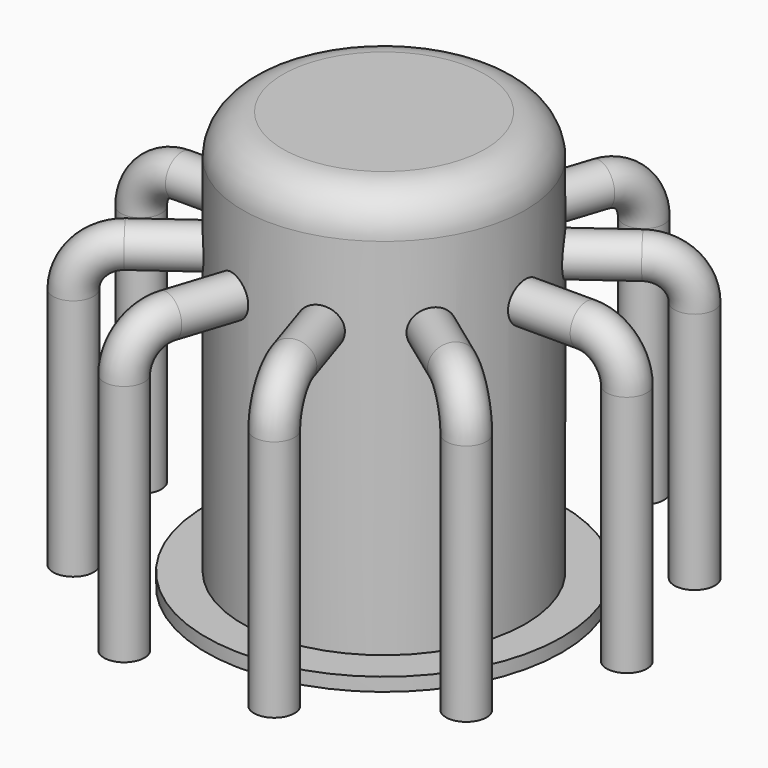
from build123d import *

# Parameters (mm, degrees)
SKETCH_R           = 44
PAD_DEPTH          = 3.3
SKETCH001_R        = 35
PAD001_DEPTH       = 100
FILLET_R           = 10
SKETCH003_R        = 5
POLARPATTERN_COUNT = 10


with BuildPart() as part:
    # Sketch → Pad (new body)
    with BuildSketch(Plane.XY):
        Circle(SKETCH_R)
    extrude(amount=PAD_DEPTH)

    # Sketch001 (on Face3 of Pad) → Pad001 (join)
    with BuildSketch(Plane.XY.offset(3.3)):
        Circle(SKETCH001_R)
    extrude(amount=PAD001_DEPTH)

    # Fillet
    fillet_edges = [part.edges().sort_by_distance(p)[0] for p in [
        (-35, 0, 103.3),
    ]]
    fillet(fillet_edges, radius=FILLET_R)

    # AdditivePipe: sweep along a path in Sketch002
    with BuildLine(Plane.XZ) as additivepipe_path:
        Line((22.617355, 73.3), (35, 73.3))
        Line((35, 73.3), (50, 73.3))
        ThreePointArc((50, 73.3), (57.0710678119, 70.3710678119), (60, 63.3))
        Line((60, 63.3), (60, 3.3))
    # Sketch003 (on Face3 of Fillet) → AdditivePipe (sweep)
    with BuildSketch(Plane.XY.offset(3.3)):
        with Locations((60, 0)):
            Circle(SKETCH003_R)
    sweep(path=additivepipe_path.line)

    # PolarPattern: part ×10 about axis
    polarpattern_axis = Axis((0, 0, 0), (0, 0, 1))


with BuildPart() as part_1:
    add(part.part)
    for i in range(1, POLARPATTERN_COUNT):
        add(part.part.rotate(polarpattern_axis, i * 360 / POLARPATTERN_COUNT))


solid = part_1.part
